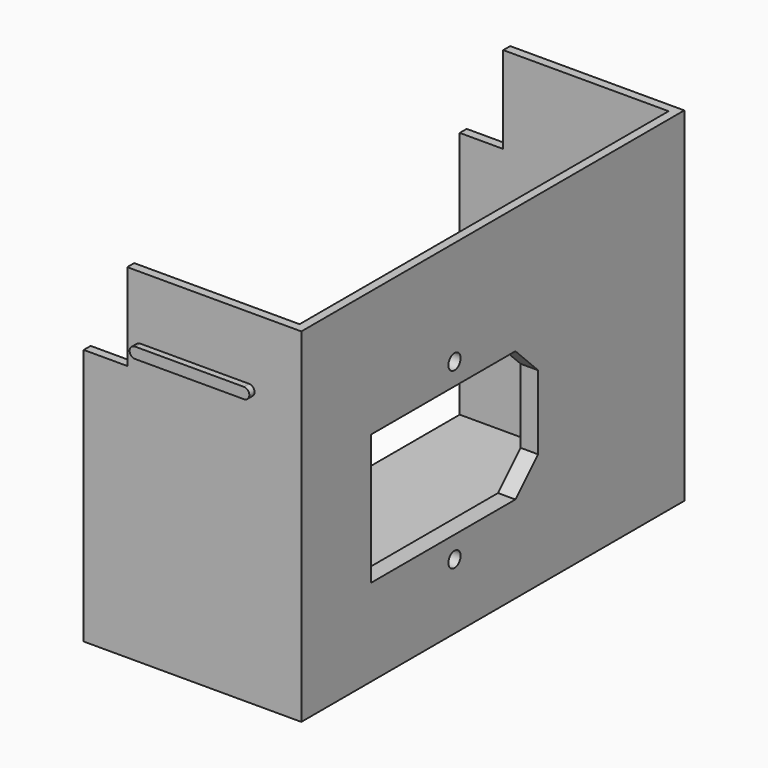
from build123d import *

# Parameters (mm, degrees)
F1_DEPTH  = 79
F2_W      = 106
F2_H      = 2
F3_DEPTH  = 48
F4_W      = 10
F4_H      = 20
F5_DEPTH  = 150
F6_W      = 59.092542
F6_H      = 51.87012
F7_DEPTH  = 2
F8_R      = 1.75
F9_DEPTH  = 25
F11_DEPTH = 1.5


with BuildPart() as f1:
    # F0 (on Top) → F1 (new body)
    with BuildSketch(Plane.XY):
        Polygon((0, 110), (-50, 110), (-50, 108), (-2, 108), (-2, 2), (-50, 2), (-50, 0), (0, 0), align=None)
    extrude(amount=F1_DEPTH)

    # F2 (on face) → F3 (join)
    with BuildSketch(Plane(origin=(-2, 0, 0), x_dir=(0, -1, 0), z_dir=(-1, 0, 0))):
        with Locations((-55, 1)):
            Rectangle(F2_W, F2_H)
    extrude(amount=F3_DEPTH)

    # F4 (on face) → F5 (cut)
    with BuildSketch(Plane.XZ):
        with Locations((-45, 69)):
            Rectangle(F4_W, F4_H)
    extrude(amount=-F5_DEPTH, mode=Mode.SUBTRACT)

    # F6 (on face) → F7 (join)
    with BuildSketch(Plane(origin=(-2, 0, 0), x_dir=(0, -1, 0), z_dir=(-1, 0, 0))):
        with Locations((-44.822951, 35.747332)):
            Rectangle(F6_W, F6_H)
    extrude(amount=F7_DEPTH)

    # F8 (on face) → F9 (cut)
    with BuildSketch(Plane.YZ):
        Polygon((61.5, 50), (20, 50), (20, 20), (61.5, 20), (68, 26.5), (68, 43.5), align=None)
        with Locations((44, 55)):
            Circle(F8_R)
        with Locations((44, 15)):
            Circle(F8_R)
    extrude(amount=-F9_DEPTH, mode=Mode.SUBTRACT)

    # F10 (on face) → F11 (join)
    with BuildSketch(Plane.XZ):
        with BuildLine():
            Line((-37, 62), (-12, 62))
            ThreePointArc((-12, 62), (-10.75, 63.25), (-12, 64.5))
            Line((-12, 64.5), (-37, 64.5))
            ThreePointArc((-37, 64.5), (-38.25, 63.25), (-37, 62))
        make_face()
    extrude(amount=F11_DEPTH)


solid = f1.part
